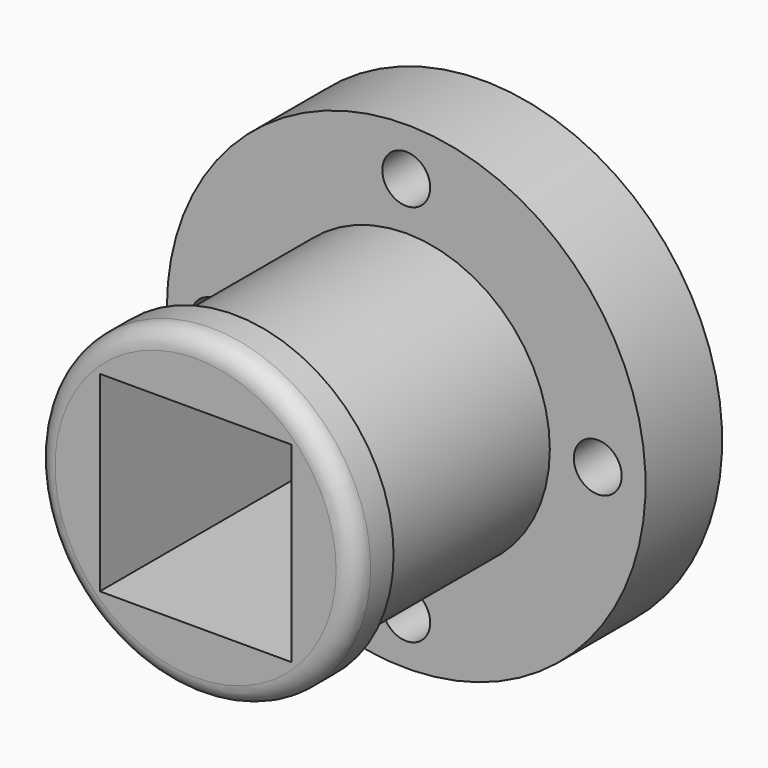
from build123d import *

# Parameters (mm, degrees)
F0_R     = 42.3758659095
F0_R_2   = 38.1
F0_W     = 50.8
F0_H     = 50.8
F1_DEPTH = 12.7
F2_R     = 38.1
F2_W     = 50.8
F2_H     = 50.8
F3_DEPTH = 57.15
F4_R     = 63.5
F4_R_2   = 38.1
F4_W     = 50.8
F4_H     = 50.8
F5_DEPTH = 25.4
F6_R     = 6.35
F7_DEPTH = 38.1
F8_R     = 5.08


with BuildPart() as f1:
    # F0 (on Front) → F1 (new body)
    with BuildSketch(Plane.XZ):
        Circle(F0_R)
        Circle(F0_R_2, mode=Mode.SUBTRACT)
        Circle(F0_R)
        Circle(F0_R_2, mode=Mode.SUBTRACT)
        Circle(F0_R_2)
        Rectangle(F0_W, F0_H, mode=Mode.SUBTRACT)
    extrude(amount=F1_DEPTH)

    # F2 (on face) → F3 (join)
    with BuildSketch(Plane(origin=(0, 0, 0), x_dir=(-1, 0, 0), z_dir=(0, 1, 0))):
        Circle(F2_R)
        Rectangle(F2_W, F2_H, mode=Mode.SUBTRACT)
    extrude(amount=F3_DEPTH)

    # F4 (on face) → F5 (join)
    with BuildSketch(Plane(origin=(0, 57.15, 0), x_dir=(-1, 0, 0), z_dir=(0, 1, 0))):
        Circle(F4_R)
        Circle(F4_R_2, mode=Mode.SUBTRACT)
        Circle(F4_R_2)
        Rectangle(F4_W, F4_H, mode=Mode.SUBTRACT)
    extrude(amount=F5_DEPTH)

    # F6 (on face) → F7 (cut)
    with BuildSketch(Plane(origin=(0, 82.55, 0), x_dir=(-1, 0, 0), z_dir=(0, 1, 0))):
        with Locations((0, -50.8)):
            Circle(F6_R)
        with Locations((-50.8, 0)):
            Circle(F6_R)
        with Locations((0, 50.8)):
            Circle(F6_R)
        with Locations((50.8, 0)):
            Circle(F6_R)
    extrude(amount=-F7_DEPTH, mode=Mode.SUBTRACT)

    # F8
    f8_edges = [f1.edges().sort_by_distance(p)[0] for p in [
        (-42.375866, -12.7, 0),
    ]]
    fillet(f8_edges, radius=F8_R)


solid = f1.part
